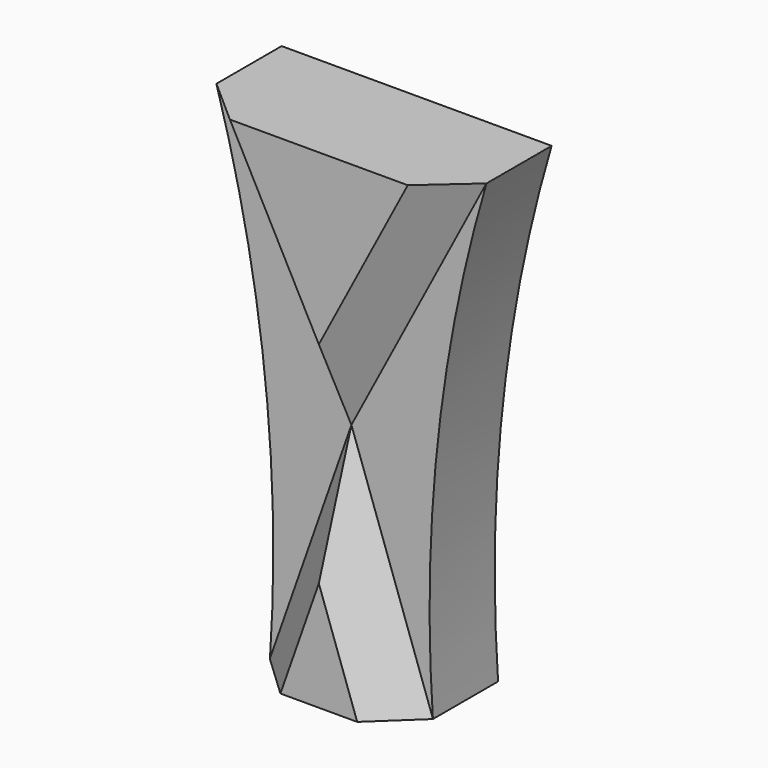
from build123d import *

# Parameters (mm, degrees)
F2_DEPTH  = 25.4
F3_DEPTH  = 38.1
F4_SIZE   = 12.7
F4_2_SIZE = 12.7
F6_DEPTH  = 15.748


with BuildPart() as f2:
    # F0 (on Front) → F2 (new body)
    with BuildSketch(Plane.XZ):
        with BuildLine():
            Line((-25.4, 0), (0, 0))
            Line((0, 0), (25.4, 0))
            ThreePointArc((25.4, 0), (26.9350814035, 76.9460667381), (42.0928390439, 152.4))
            Line((42.0928390439, 152.4), (0, 152.4))
            Line((0, 152.4), (-42.0928390439, 152.4))
            ThreePointArc((-42.0928390439, 152.4), (-26.9350814035, 76.9460667381), (-25.4, 0))
        make_face()
    extrude(amount=F2_DEPTH)


with BuildPart() as f3:
    # F1 (on Front) → F3 (new body)
    with BuildSketch(Plane.XZ):
        Polygon((42.0741848648, 152.4278223515), (-42.0741848648, 152.4278223515), (0, 72.4563598633), align=None)
    extrude(amount=F3_DEPTH)

    # F4
    f4_edges = [f3.edges().sort_by_distance(p)[0] for p in [
        (-21.037092, -38.1, 112.442091),
        (21.037092, -38.1, 112.442091),
    ]]
    chamfer(f4_edges, length=F4_SIZE)


with BuildPart() as f3b:
    # F1 (on Front) → F3, piece 2 (new body)
    with BuildSketch(Plane.XZ):
        Polygon((25.4312567413, 0), (0, 72.4563598633), (-25.4312567413, 0), align=None)
    extrude(amount=F3_DEPTH)

    # F4#2
    f4_2_edges = [f3b.edges().sort_by_distance(p)[0] for p in [
        (-12.715628, -38.1, 36.22818),
        (12.715628, -38.1, 36.22818),
    ]]
    chamfer(f4_2_edges, length=F4_2_SIZE)


with BuildPart() as f6_tool:
    # F5 (on face) → F6 (new body)
    with BuildSketch(Plane.XZ):
        with BuildLine():
            Line((36.6889990651, 148.3359999431), (0, 148.3359999431))
            Line((0, 148.3359999431), (-36.6889990651, 148.3359999431))
            ThreePointArc((-36.6889990651, 148.3359999431), (-22.8370367883, 76.8541167958), (-21.0663357049, 4.0640000569))
            Line((-21.0663357049, 4.0640000569), (0, 4.0640000569))
            Line((0, 4.0640000569), (21.0663357049, 4.0640000569))
            ThreePointArc((21.0663357049, 4.0640000569), (22.8370367883, 76.8541167958), (36.6889990651, 148.3359999431))
        make_face()
    extrude(amount=F6_DEPTH)


with BuildPart() as f2_1:
    add(f2.part)

    # F6: cut by f6_tool
    add(f6_tool.part, mode=Mode.SUBTRACT)


with BuildPart() as f3_1:
    add(f3.part)

    # F6: cut by f6_tool
    add(f6_tool.part, mode=Mode.SUBTRACT)


with BuildPart() as f3b_1:
    add(f3b.part)

    # F6: cut by f6_tool
    add(f6_tool.part, mode=Mode.SUBTRACT)


solid = Compound([f2_1.part, f3_1.part, f3b_1.part])
